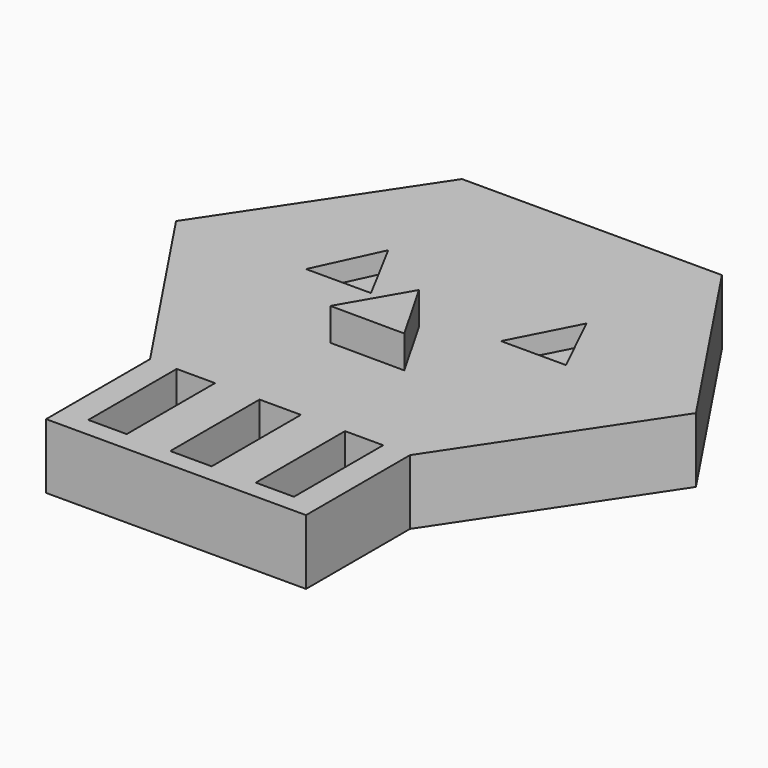
from build123d import *

# Parameters (mm, degrees)
PAD_DEPTH       = 10
POCKET_DEPTH    = 3
SKETCH002_W     = 5.905023
SKETCH002_H     = 16.995962
SKETCH002_W_2   = 5.877612
SKETCH002_H_2   = 17.170593
SKETCH002_W_3   = 6.373988
POCKET001_DEPTH = 10.001
PAD001_DEPTH    = 5


with BuildPart() as part:
    # Sketch → Pad (new body)
    with BuildSketch(Plane.XY):
        Polygon((-20, 50), (20, 50), (40, 20), (20, -10), (20, -30), (-20, -30), (-20, -10), (-40, 20), align=None)
    extrude(amount=PAD_DEPTH)

    # Sketch001 (on Face10 of Pad) → Pocket (cut)
    with BuildSketch(Plane.XY.offset(10)):
        Polygon((-15.351509, 30), (-20, 20), (-10, 20), align=None)
        Polygon((10, 20), (20, 20), (15.157187, 30), align=None)
    extrude(amount=-POCKET_DEPTH, mode=Mode.SUBTRACT)

    # Sketch002 (on Face5 of Pocket) → Pocket001 (cut, through all)
    with BuildSketch(Plane.XY.offset(10)):
        with Locations((-12.952511, -18.497981)):
            Rectangle(SKETCH002_W, SKETCH002_H)
        with Locations((12.938806, -18.585296)):
            Rectangle(SKETCH002_W_2, SKETCH002_H_2)
        with Locations((0.029951, -18.585296)):
            Rectangle(SKETCH002_W_3, SKETCH002_H_2)
    extrude(amount=-POCKET001_DEPTH, mode=Mode.SUBTRACT)

    # Sketch003 (on Face5 of Pocket001) → Pad001 (join)
    with BuildSketch(Plane.XY.offset(10)):
        Polygon((0, 16.734911), (-5.724616, 6.843517), (5.68853, 6.784989), align=None)
    extrude(amount=PAD001_DEPTH)


solid = part.part
